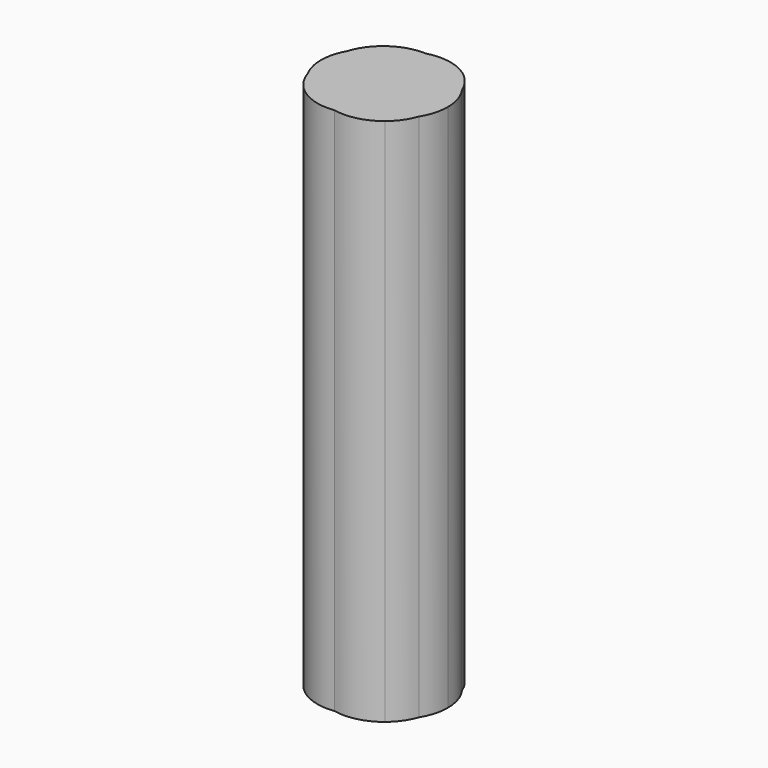
from build123d import *

# Parameters (mm, degrees)
F1_DEPTH = 25


with BuildPart() as f1:
    # F0 (on Top) → F1 (new body)
    with BuildSketch(Plane.XY):
        with BuildLine():
            ThreePointArc((1.2145237572, 2.7431609583), (1.5661560246, 2.5587409612), (1.8903534171, 2.3294986496))
            ThreePointArc((1.8903534171, 2.3294986496), (1.5696282097, 2.5644137181), (1.2145237572, 2.7431609583))
        make_face()
        with BuildLine():
            ThreePointArc((-2.6971494632, 1.1670321884), (-2.9230538866, 0.602843794), (-3, -7.1e-09))
            ThreePointArc((-3, -7.1e-09), (-2.9244950269, -0.5972628147), (-2.7027309452, -1.1569453626))
            ThreePointArc((-2.7027309452, -1.1569453626), (-2.8098534543, -0.5773803496), (-2.7724957206, 0.0108162466))
            ThreePointArc((-2.7724957206, 0.0108162466), (-2.8056442701, 0.5935394007), (-2.6971494632, 1.1670321884))
        make_face()
        with BuildLine():
            ThreePointArc((0, 2.3237900077), (0.5091765934, 2.3982808653), (1.0225286934, 2.3625133869))
            ThreePointArc((1.0225286934, 2.3625133869), (0.3936943594, 2.6986461258), (-0.3061435643, 2.8351917902))
            ThreePointArc((-0.3061435643, 2.8351917902), (-0.8312662298, 2.6250655472), (-1.2926313697, 2.2978820217))
            ThreePointArc((-1.2926313697, 2.2978820217), (-0.6480931242, 2.3995180873), (0, 2.3237900077))
        make_face()
        with BuildLine():
            ThreePointArc((-0.3061435643, 2.8351917902), (-1.2452617924, 2.6877040375), (-2.0534480514, 2.1871736645))
            ThreePointArc((-2.0534480514, 2.1871736645), (-2.4404348522, 1.7182033005), (-2.6971494632, 1.1670321884))
            ThreePointArc((-2.6971494632, 1.1670321884), (-2.1051327551, 1.8693783431), (-1.2926313697, 2.2978820217))
            ThreePointArc((-1.2926313697, 2.2978820217), (-0.8312662298, 2.6250655472), (-0.3061435643, 2.8351917902))
        make_face()
        with BuildLine():
            ThreePointArc((-1.891761125, 1.4569338473), (-2.4638935619, 0.8141244793), (-2.7724957206, 0.0108162466))
            ThreePointArc((-2.7724957206, 0.0108162466), (-2.4250170931, -0.8673747652), (-1.7656165001, -1.5435047142))
            ThreePointArc((-1.7656165001, -1.5435047142), (-1.9902787019, -0.8503911859), (-1.9966041151, -0.1218038835))
            ThreePointArc((-1.9966041151, -0.1218038835), (-2.0780218042, 0.6764531589), (-1.891761125, 1.4569338473))
        make_face()
        with BuildLine():
            ThreePointArc((-1.2926313697, 2.2978820217), (-2.1051327551, 1.8693783431), (-2.6971494632, 1.1670321884))
            ThreePointArc((-2.6971494632, 1.1670321884), (-2.8056442701, 0.5935394007), (-2.7724957206, 0.0108162466))
            ThreePointArc((-2.7724957206, 0.0108162466), (-2.4638935619, 0.8141244793), (-1.891761125, 1.4569338473))
            ThreePointArc((-1.891761125, 1.4569338473), (-1.6379567553, 1.9100098031), (-1.2926313697, 2.2978820217))
        make_face()
        with BuildLine():
            ThreePointArc((-1.6655926226, 0.7918901872), (-1.3317700546, 1.4241714982), (-0.8264971382, 1.930053345))
            ThreePointArc((-0.8264971382, 1.930053345), (-1.3882878833, 1.7591467098), (-1.891761125, 1.4569338473))
            ThreePointArc((-1.891761125, 1.4569338473), (-2.0780218042, 0.6764531589), (-1.9966041151, -0.1218038835))
            ThreePointArc((-1.9966041151, -0.1218038835), (-1.8778287416, 0.3519725497), (-1.6655926226, 0.7918901872))
        make_face()
        with BuildLine():
            ThreePointArc((-0.8264971382, 1.930053345), (-0.4321965911, 2.1666956864), (0, 2.3237900077))
            ThreePointArc((0, 2.3237900077), (-0.6480931242, 2.3995180873), (-1.2926313697, 2.2978820217))
            ThreePointArc((-1.2926313697, 2.2978820217), (-1.6379567553, 1.9100098031), (-1.891761125, 1.4569338473))
            ThreePointArc((-1.891761125, 1.4569338473), (-1.3882878833, 1.7591467098), (-0.8264971382, 1.930053345))
        make_face()
        with BuildLine():
            ThreePointArc((0.8936048083, 1.8786017876), (0.4702071814, 2.1481751765), (0, 2.3237900077))
            ThreePointArc((0, 2.3237900077), (-0.4321965911, 2.1666956864), (-0.8264971382, 1.930053345))
            ThreePointArc((-0.8264971382, 1.930053345), (-0.3748003349, 1.9654238069), (0.0754949738, 1.9152719716))
            ThreePointArc((0.0754949738, 1.9152719716), (0.4861255229, 1.9320891402), (0.8936048083, 1.8786017876))
        make_face()
        with BuildLine():
            ThreePointArc((1.7335505231, 1.5154725868), (1.4274938242, 1.9805057771), (1.0225286934, 2.3625133869))
            ThreePointArc((1.0225286934, 2.3625133869), (0.5091765934, 2.3982808653), (0, 2.3237900077))
            ThreePointArc((0, 2.3237900077), (0.4702071814, 2.1481751765), (0.8936048083, 1.8786017876))
            ThreePointArc((0.8936048083, 1.8786017876), (1.3310447327, 1.7374398538), (1.7335505231, 1.5154725868))
        make_face()
        with BuildLine():
            ThreePointArc((2.5475158106, 1.4025627142), (2.2745813704, 1.90548212), (1.8903534171, 2.3294986496))
            ThreePointArc((1.8903534171, 2.3294986496), (1.5661560246, 2.5587409612), (1.2145237572, 2.7431609583))
            ThreePointArc((1.2145237572, 2.7431609583), (0.4616861922, 2.9130377773), (-0.3061435643, 2.8351917902))
            ThreePointArc((-0.3061435643, 2.8351917902), (0.3936943594, 2.6986461258), (1.0225286934, 2.3625133869))
            ThreePointArc((1.0225286934, 2.3625133869), (1.8785359054, 2.0310947636), (2.5475158106, 1.4025627142))
        make_face()
        with BuildLine():
            ThreePointArc((2.7167033901, 0.5174209492), (2.6740270642, 0.9680040107), (2.5475158106, 1.4025627142))
            ThreePointArc((2.5475158106, 1.4025627142), (1.8785359054, 2.0310947636), (1.0225286934, 2.3625133869))
            ThreePointArc((1.0225286934, 2.3625133869), (1.4274938242, 1.9805057771), (1.7335505231, 1.5154725868))
            ThreePointArc((1.7335505231, 1.5154725868), (2.3316037725, 0.9294886108), (2.6919655931, 0.1737212738))
            ThreePointArc((2.6919655931, 0.1737212738), (2.710510952, 0.3451265605), (2.7167033901, 0.5174209492))
        make_face()
        with BuildLine():
            ThreePointArc((2.6442507105, -1.257393746), (2.9093507427, -0.6533751965), (3, 0))
            ThreePointArc((3, 0), (2.8840794585, 0.7368724633), (2.5475158106, 1.4025627142))
            ThreePointArc((2.5475158106, 1.4025627142), (2.6740270642, 0.9680040107), (2.7167033901, 0.5174209492))
            ThreePointArc((2.7167033901, 0.5174209492), (2.710510952, 0.3451265605), (2.6919655931, 0.1737212738))
            ThreePointArc((2.6919655931, 0.1737212738), (2.7568862112, -0.1429651986), (2.778658088, -0.4655035588))
            ThreePointArc((2.778658088, -0.4655035588), (2.7448176656, -0.8671113936), (2.6442507105, -1.257393746))
        make_face()
        with BuildLine():
            ThreePointArc((-0.1109618815, -2.8150295292), (0.9461488192, -2.7974457257), (1.893131616, -2.3273225438))
            ThreePointArc((1.893131616, -2.3273225438), (2.3429421646, -1.8444843659), (2.6442507105, -1.257393746))
            ThreePointArc((2.6442507105, -1.257393746), (1.9472428841, -1.9861864492), (1.0123721426, -2.3643073438))
            ThreePointArc((1.0123721426, -2.3643073438), (0.4795856786, -2.6616473701), (-0.1109618815, -2.8150295292))
        make_face()
        with BuildLine():
            ThreePointArc((-2.7027309452, -1.1569453626), (-2.450725284, -1.7040017159), (-2.0704500438, -2.1710865568))
            ThreePointArc((-2.0704500438, -2.1710865568), (-1.1634096163, -2.7142918399), (-0.1109618815, -2.8150295292))
            ThreePointArc((-0.1109618815, -2.8150295292), (-0.6405266481, -2.6383501879), (-1.1149467204, -2.3441053464))
            ThreePointArc((-1.1149467204, -2.3441053464), (-2.0371486691, -1.9221351937), (-2.7027309452, -1.1569453626))
        make_face()
        with BuildLine():
            ThreePointArc((-2.7724957206, 0.0108162466), (-2.8098534543, -0.5773803496), (-2.7027309452, -1.1569453626))
            ThreePointArc((-2.7027309452, -1.1569453626), (-2.0371486691, -1.9221351937), (-1.1149467204, -2.3441053464))
            ThreePointArc((-1.1149467204, -2.3441053464), (-1.4838085477, -1.9791805492), (-1.7656165001, -1.5435047142))
            ThreePointArc((-1.7656165001, -1.5435047142), (-2.4250170931, -0.8673747652), (-2.7724957206, 0.0108162466))
        make_face()
        with BuildLine():
            ThreePointArc((-1.7656165001, -1.5435047142), (-1.4838085477, -1.9791805492), (-1.1149467204, -2.3441053464))
            ThreePointArc((-1.1149467204, -2.3441053464), (-0.5562770845, -2.3996016975), (0, -2.3237900077))
            ThreePointArc((0, -2.3237900077), (-0.4359918905, -2.1648835541), (-0.8332527584, -1.9250419555))
            ThreePointArc((-0.8332527584, -1.9250419555), (-1.3196790329, -1.7837446469), (-1.7656165001, -1.5435047142))
        make_face()
        with BuildLine():
            ThreePointArc((-1.9966041151, -0.1218038835), (-1.9902787019, -0.8503911859), (-1.7656165001, -1.5435047142))
            ThreePointArc((-1.7656165001, -1.5435047142), (-1.3196790329, -1.7837446469), (-0.8332527584, -1.9250419555))
            ThreePointArc((-0.8332527584, -1.9250419555), (-1.3043874371, -1.460584982), (-1.6308124206, -0.8851417651))
            ThreePointArc((-1.6308124206, -0.8851417651), (-1.8476267632, -0.5197265753), (-1.9966041151, -0.1218038835))
        make_face()
        with BuildLine():
            ThreePointArc((0.0754949738, 1.9152719716), (-0.922527746, 1.5511559131), (-1.6655926226, 0.7918901872))
            ThreePointArc((-1.6655926226, 0.7918901872), (-1.7994840321, -0.0497632375), (-1.6308124206, -0.8851417651))
            ThreePointArc((-1.6308124206, -0.8851417651), (-0.8236296762, -1.5943651427), (0.2121228894, -1.8802994096))
            ThreePointArc((0.2121228894, -1.8802994096), (1.0659766459, -1.45444691), (1.6864253983, -0.729560757))
            ThreePointArc((1.6864253983, -0.729560757), (1.7714363744, -0.3691741081), (1.8, 0))
            ThreePointArc((1.8, 0), (1.7719880142, 0.3656129927), (1.6886059496, 0.7226913638))
            ThreePointArc((1.6886059496, 0.7226913638), (1.0126310952, 1.4956079282), (0.0754949738, 1.9152719716))
        make_face()
        with BuildLine():
            ThreePointArc((0.0754949738, 1.9152719716), (-0.3748003349, 1.9654238069), (-0.8264971382, 1.930053345))
            ThreePointArc((-0.8264971382, 1.930053345), (-1.3317700546, 1.4241714982), (-1.6655926226, 0.7918901872))
            ThreePointArc((-1.6655926226, 0.7918901872), (-0.922527746, 1.5511559131), (0.0754949738, 1.9152719716))
        make_face()
        with BuildLine():
            ThreePointArc((1.989275935, 0.4374714314), (1.9244696113, 0.9914303598), (1.7335505231, 1.5154725868))
            ThreePointArc((1.7335505231, 1.5154725868), (1.3310447327, 1.7374398538), (0.8936048083, 1.8786017876))
            ThreePointArc((0.8936048083, 1.8786017876), (1.3774508291, 1.3600324329), (1.6886059496, 0.7226913638))
            ThreePointArc((1.6886059496, 0.7226913638), (1.8477938368, 0.3680696241), (1.94764666, -0.007598814))
            ThreePointArc((1.94764666, -0.007598814), (1.9788459528, 0.2139649886), (1.989275935, 0.4374714314))
        make_face()
        with BuildLine():
            ThreePointArc((2.6919655931, 0.1737212738), (2.3316037725, 0.9294886108), (1.7335505231, 1.5154725868))
            ThreePointArc((1.7335505231, 1.5154725868), (1.9244696113, 0.9914303598), (1.989275935, 0.4374714314))
            ThreePointArc((1.989275935, 0.4374714314), (1.9788459528, 0.2139649886), (1.94764666, -0.007598814))
            ThreePointArc((1.94764666, -0.007598814), (1.9762988134, -0.2200718024), (1.9858750044, -0.4342539988))
            ThreePointArc((1.9858750044, -0.4342539988), (1.9375036779, -0.9136730034), (1.7943395194, -1.3737668969))
            ThreePointArc((1.7943395194, -1.3737668969), (2.3927299553, -0.6867857193), (2.6919655931, 0.1737212738))
        make_face()
        with BuildLine():
            ThreePointArc((1.0123721426, -2.3643073438), (1.9472428841, -1.9861864492), (2.6442507105, -1.257393746))
            ThreePointArc((2.6442507105, -1.257393746), (2.7448176656, -0.8671113936), (2.778658088, -0.4655035588))
            ThreePointArc((2.778658088, -0.4655035588), (2.7568862112, -0.1429651986), (2.6919655931, 0.1737212738))
            ThreePointArc((2.6919655931, 0.1737212738), (2.3927299553, -0.6867857193), (1.7943395194, -1.3737668969))
            ThreePointArc((1.7943395194, -1.3737668969), (1.4696290089, -1.9213554918), (1.0123721426, -2.3643073438))
        make_face()
        with BuildLine():
            ThreePointArc((0.2121228894, -1.8802994096), (0.6149363184, -1.8639771949), (1.0093347598, -1.7804610726))
            ThreePointArc((1.0093347598, -1.7804610726), (1.4175070435, -1.2998712742), (1.6864253983, -0.729560757))
            ThreePointArc((1.6864253983, -0.729560757), (1.0659766459, -1.45444691), (0.2121228894, -1.8802994096))
        make_face()
        with BuildLine():
            ThreePointArc((-1.1149467204, -2.3441053464), (-0.6405266481, -2.6383501879), (-0.1109618815, -2.8150295292))
            ThreePointArc((-0.1109618815, -2.8150295292), (0.4795856786, -2.6616473701), (1.0123721426, -2.3643073438))
            ThreePointArc((1.0123721426, -2.3643073438), (0.5040236131, -2.3980801765), (0, -2.3237900077))
            ThreePointArc((0, -2.3237900077), (-0.5562770845, -2.3996016975), (-1.1149467204, -2.3441053464))
        make_face()
        with BuildLine():
            ThreePointArc((0, -2.3237900077), (0.5040236131, -2.3980801765), (1.0123721426, -2.3643073438))
            ThreePointArc((1.0123721426, -2.3643073438), (1.4696290089, -1.9213554918), (1.7943395194, -1.3737668969))
            ThreePointArc((1.7943395194, -1.3737668969), (1.4207257144, -1.6135728818), (1.0093347598, -1.7804610726))
            ThreePointArc((1.0093347598, -1.7804610726), (0.537581471, -2.1132695987), (0, -2.3237900077))
        make_face()
        with BuildLine():
            ThreePointArc((-0.8332527584, -1.9250419555), (-0.4359918905, -2.1648835541), (0, -2.3237900077))
            ThreePointArc((0, -2.3237900077), (0.537581471, -2.1132695987), (1.0093347598, -1.7804610726))
            ThreePointArc((1.0093347598, -1.7804610726), (0.6149363184, -1.8639771949), (0.2121228894, -1.8802994096))
            ThreePointArc((0.2121228894, -1.8802994096), (-0.3080969474, -1.9603333302), (-0.8332527584, -1.9250419555))
        make_face()
        with BuildLine():
            ThreePointArc((-1.6308124206, -0.8851417651), (-1.3043874371, -1.460584982), (-0.8332527584, -1.9250419555))
            ThreePointArc((-0.8332527584, -1.9250419555), (-0.3080969474, -1.9603333302), (0.2121228894, -1.8802994096))
            ThreePointArc((0.2121228894, -1.8802994096), (-0.8236296762, -1.5943651427), (-1.6308124206, -0.8851417651))
        make_face()
        with BuildLine():
            ThreePointArc((-1.6655926226, 0.7918901872), (-1.8778287416, 0.3519725497), (-1.9966041151, -0.1218038835))
            ThreePointArc((-1.9966041151, -0.1218038835), (-1.8476267632, -0.5197265753), (-1.6308124206, -0.8851417651))
            ThreePointArc((-1.6308124206, -0.8851417651), (-1.7994840321, -0.0497632375), (-1.6655926226, 0.7918901872))
        make_face()
        with BuildLine():
            ThreePointArc((1.0093347598, -1.7804610726), (1.4207257144, -1.6135728818), (1.7943395194, -1.3737668969))
            ThreePointArc((1.7943395194, -1.3737668969), (1.9375036779, -0.9136730034), (1.9858750044, -0.4342539988))
            ThreePointArc((1.9858750044, -0.4342539988), (1.9762988134, -0.2200718024), (1.94764666, -0.007598814))
            ThreePointArc((1.94764666, -0.007598814), (1.846092786, -0.3790931412), (1.6864253983, -0.729560757))
            ThreePointArc((1.6864253983, -0.729560757), (1.4175070435, -1.2998712742), (1.0093347598, -1.7804610726))
        make_face()
        with BuildLine():
            ThreePointArc((1.94764666, -0.007598814), (1.8477938368, 0.3680696241), (1.6886059496, 0.7226913638))
            ThreePointArc((1.6886059496, 0.7226913638), (1.7719880142, 0.3656129927), (1.8, 0))
            ThreePointArc((1.8, 0), (1.7714363744, -0.3691741081), (1.6864253983, -0.729560757))
            ThreePointArc((1.6864253983, -0.729560757), (1.846092786, -0.3790931412), (1.94764666, -0.007598814))
        make_face()
        with BuildLine():
            ThreePointArc((1.6886059496, 0.7226913638), (1.3774508291, 1.3600324329), (0.8936048083, 1.8786017876))
            ThreePointArc((0.8936048083, 1.8786017876), (0.4861255229, 1.9320891402), (0.0754949738, 1.9152719716))
            ThreePointArc((0.0754949738, 1.9152719716), (1.0126310952, 1.4956079282), (1.6886059496, 0.7226913638))
        make_face()
    extrude(amount=F1_DEPTH)


solid = f1.part
